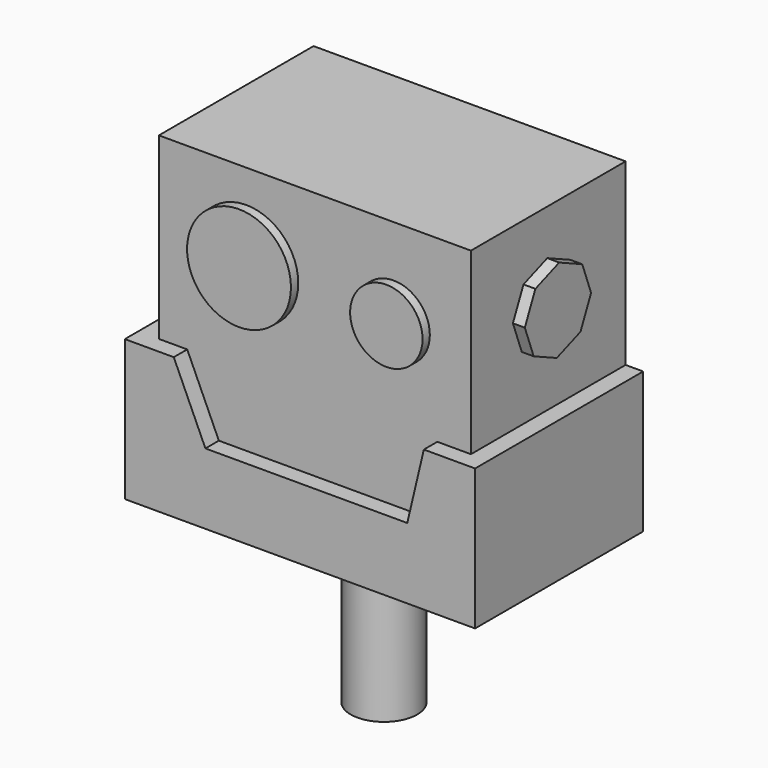
from build123d import *

# Parameters (mm, degrees)
F1_DEPTH  = 15.24
F2_W      = 22.628388
F2_H      = 18.998165
F3_DEPTH  = 14.0208
F5_DEPTH  = 23.622
F6_DEPTH  = 0.8636
F7_R      = 3.766299
F7_R_2    = 2.625981
F8_DEPTH  = 0.6604
F9_R      = 2.413
F10_DEPTH = 11.938


with BuildPart() as f1:
    # F0 (on Front) → F1 (new body)
    with BuildSketch(Plane.XZ):
        Polygon((3.550537, 0), (0, 0), (0, -10.214623), (25.4, -10.214623), (25.4, 0), (21.685589, 0), (20.48387, -5.08), (5.844731, -5.08), align=None)
    extrude(amount=F1_DEPTH)

    # F2 (on Front) → F3 (join)
    with BuildSketch(Plane.XZ):
        with Locations((12.809009, 3.497728)):
            Rectangle(F2_W, F2_H)
    extrude(amount=F3_DEPTH)

    # F4 (on face) → F5 (join)
    with BuildSketch(Plane.YZ.offset(24.123203)):
        Polygon((-7.100273, 9.703922), (-9.255558, 8.901955), (-10.212499, 6.810862), (-9.410532, 4.655577), (-7.319439, 3.698636), (-5.164154, 4.500603), (-4.207213, 6.591696), (-5.00918, 8.746981), align=None)
    extrude(amount=-F5_DEPTH)

    # F4 (on face) → F6 (join)
    with BuildSketch(Plane.YZ.offset(24.123203)):
        Polygon((-7.100273, 9.703922), (-9.255558, 8.901955), (-10.212499, 6.810862), (-9.410532, 4.655577), (-7.319439, 3.698636), (-5.164154, 4.500603), (-4.207213, 6.591696), (-5.00918, 8.746981), align=None)
    extrude(amount=F6_DEPTH)

    # F7 (on face) → F8 (join)
    with BuildSketch(Plane.XZ.offset(14.0208)):
        with Locations((7.834505, 6.848152)):
            Circle(F7_R)
        with Locations((18.51875, 6.644643)):
            Circle(F7_R_2)
    extrude(amount=F8_DEPTH)

    # F9 (on face) → F10 (join)
    with BuildSketch(Plane(origin=(0, 0, -10.214623), x_dir=(1, 0, 0), z_dir=(0, 0, -1))):
        with Locations((12.7, 7.62)):
            Circle(F9_R)
    extrude(amount=F10_DEPTH)


solid = f1.part
